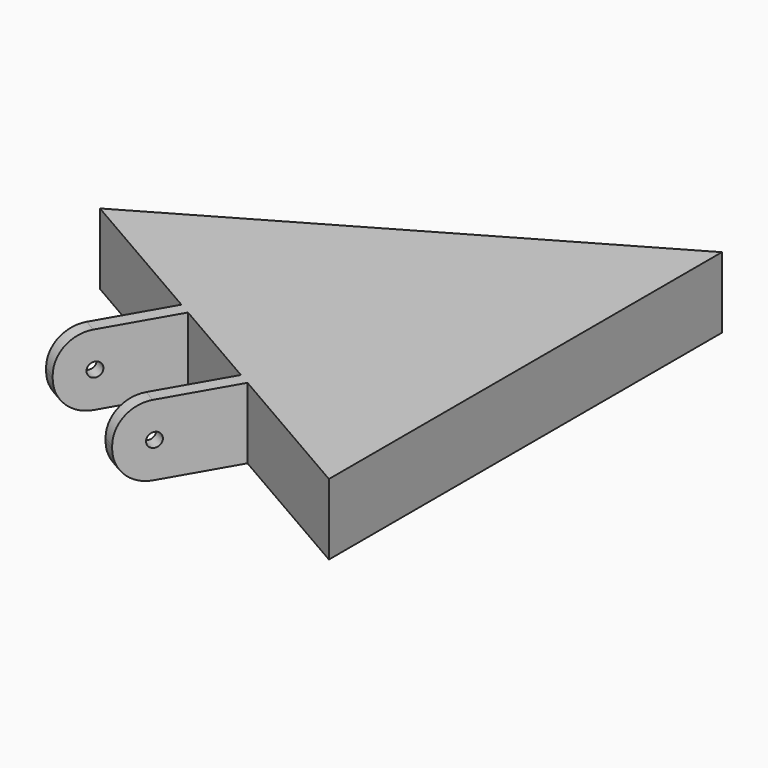
from build123d import *

# Parameters (mm, degrees)
F1_DEPTH = 12.7
F2_W     = 2.54
F2_H     = 12.7
F3_DEPTH = 20.32
F4_R     = 1.27
F5_DEPTH = 39.1414
F6_R     = 6.096


with BuildPart() as f1:
    # F0 (on Top) → F1 (new body)
    with BuildSketch(Plane.XY):
        Polygon((25.4, -43.9940905122), (25.4, 43.9940905122), (-50.8, 0), align=None)
    extrude(amount=F1_DEPTH)

    # F2 (on face) → F3 (join)
    with BuildSketch(Plane(origin=(-12.7, -21.9970452561, 0), x_dir=(0.8660254038, -0.5, 0), z_dir=(-0.5, -0.8660254038, 0))):
        with Locations((11.43, 6.35)):
            Rectangle(F2_W, F2_H)
        with Locations((-11.43, 6.35)):
            Rectangle(F2_W, F2_H)
    extrude(amount=F3_DEPTH)

    # F4 (on face) → F5 (cut)
    with BuildSketch(Plane(origin=(10.9985226281, -6.35, 0), x_dir=(0.5, 0.8660254038, 0), z_dir=(0.8660254038, -0.5, 0))):
        with Locations((-39.37, 6.35)):
            Circle(F4_R)
    extrude(amount=-F5_DEPTH, mode=Mode.SUBTRACT)

    # F6
    f6_edges = [f1.edges().sort_by_distance(p)[0] for p in [
        (-32.75867, -33.879681, 0),
        (-32.75867, -33.879681, 12.7),
        (-12.96133, -45.309681, 12.7),
        (-12.96133, -45.309681, 0),
    ]]
    fillet(f6_edges, radius=F6_R)


solid = f1.part
